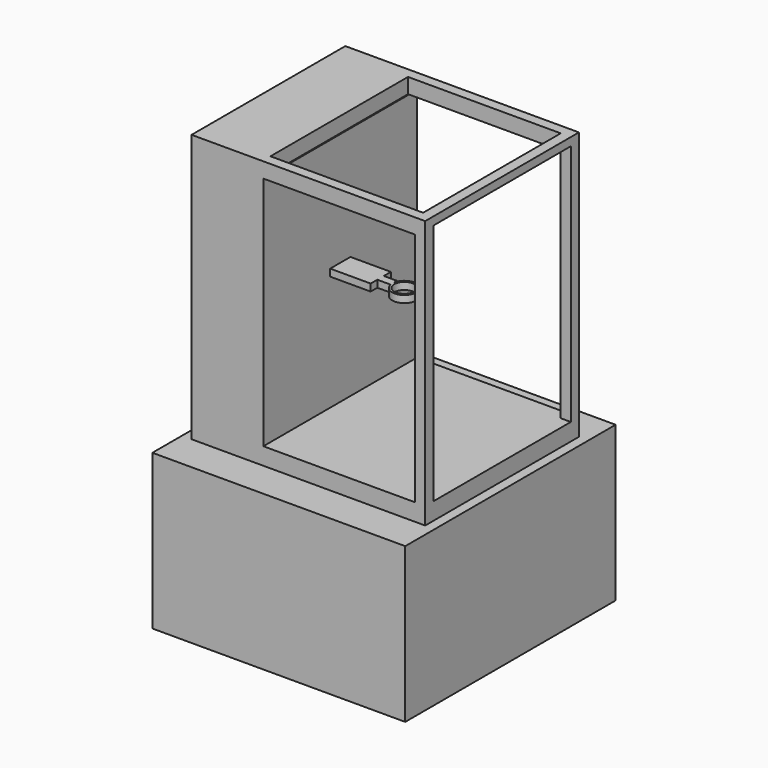
from build123d import *

# Parameters (mm, degrees)
F0_W      = 250
F0_H      = 153
F1_DEPTH  = 260
F2_W      = 231
F2_H      = 190
F3_DEPTH  = 265
F4_W      = 150
F4_H      = 233
F5_DEPTH  = 190
F6_W      = 170
F6_H      = 240
F7_DEPTH  = 10
F8_W      = 151
F8_H      = 170
F9_DEPTH  = 15
F10_W     = 25
F10_H     = 7
F11_DEPTH = 40
F12_W     = 8
F12_H     = 7
F13_DEPTH = 13
F14_R     = 12
F15_DEPTH = 7
F16_R     = 10
F17_DEPTH = 7
F18_W     = 50.8
F18_H     = 25.4
F19_DEPTH = 9
F20_W     = 50.8
F20_H     = 25.4
F21_DEPTH = 9
F22_W     = 50.8
F22_H     = 25.4
F23_DEPTH = 9
F24_W     = 50.8
F24_H     = 25.4
F25_DEPTH = 9


with BuildPart() as f1:
    # F0 (on Front) → F1 (new body)
    with BuildSketch(Plane.XZ):
        Rectangle(F0_W, F0_H)
    extrude(amount=F1_DEPTH)

    # F2 (on face) → F3 (join)
    with BuildSketch(Plane.XY.offset(76.5)):
        with Locations((0, -128.47054)):
            Rectangle(F2_W, F2_H)
        with Locations((0, -128.47054)):
            Rectangle(F2_W, F2_H)
    extrude(amount=F3_DEPTH)

    # F4 (on face) → F5 (cut)
    with BuildSketch(Plane.XZ.offset(223.47054)):
        with Locations((30.5, 210)):
            Rectangle(F4_W, F4_H)
    extrude(amount=-F5_DEPTH, mode=Mode.SUBTRACT)

    # F6 (on face) → F7 (cut)
    with BuildSketch(Plane.YZ.offset(115.5)):
        with Locations((-128.47054, 213.5)):
            Rectangle(F6_W, F6_H)
    extrude(amount=-F7_DEPTH, mode=Mode.SUBTRACT)

    # F8 (on face) → F9 (cut)
    with BuildSketch(Plane.XY.offset(341.5)):
        with Locations((30, -128.47054)):
            Rectangle(F8_W, F8_H)
    extrude(amount=-F9_DEPTH, mode=Mode.SUBTRACT)

    # F10 (on face) → F11 (join)
    with BuildSketch(Plane.YZ.offset(-44.5)):
        with Locations((-128.371669, 211.050056)):
            Rectangle(F10_W, F10_H)
    extrude(amount=F11_DEPTH)

    # F12 (on face) → F13 (join)
    with BuildSketch(Plane.YZ.offset(-4.5)):
        with Locations((-128.627784, 211.050056)):
            Rectangle(F12_W, F12_H)
    extrude(amount=F13_DEPTH)

    # F14 (on face) → F15 (join)
    with BuildSketch(Plane.XY.offset(214.550056)):
        with Locations((20.38017, -130.319401)):
            Circle(F14_R)
    extrude(amount=-F15_DEPTH)

    # F16 (on face) → F17 (cut)
    with BuildSketch(Plane.XY.offset(214.550056)):
        with Locations((20.38017, -130.319401)):
            Circle(F16_R)
    extrude(amount=-F17_DEPTH, mode=Mode.SUBTRACT)

    # F18 (on face) → F19 (join)
    with BuildSketch(Plane(origin=(0, 0, -76.5), x_dir=(1, 0, 0), z_dir=(0, 0, -1))):
        with Locations((-74.2, 221.9)):
            Rectangle(F18_W, F18_H)
    extrude(amount=F19_DEPTH)

    # F20 (on face) → F21 (join)
    with BuildSketch(Plane(origin=(0, 0, -76.5), x_dir=(1, 0, 0), z_dir=(0, 0, -1))):
        with Locations((74.2, 221.9)):
            Rectangle(F20_W, F20_H)
    extrude(amount=F21_DEPTH)

    # F22 (on face) → F23 (join)
    with BuildSketch(Plane(origin=(0, 0, -76.5), x_dir=(1, 0, 0), z_dir=(0, 0, -1))):
        with Locations((74.2, 38.1)):
            Rectangle(F22_W, F22_H)
    extrude(amount=F23_DEPTH)

    # F24 (on face) → F25 (join)
    with BuildSketch(Plane(origin=(0, 0, -76.5), x_dir=(1, 0, 0), z_dir=(0, 0, -1))):
        with Locations((-74.2, 38.1)):
            Rectangle(F24_W, F24_H)
    extrude(amount=F25_DEPTH)


solid = f1.part
